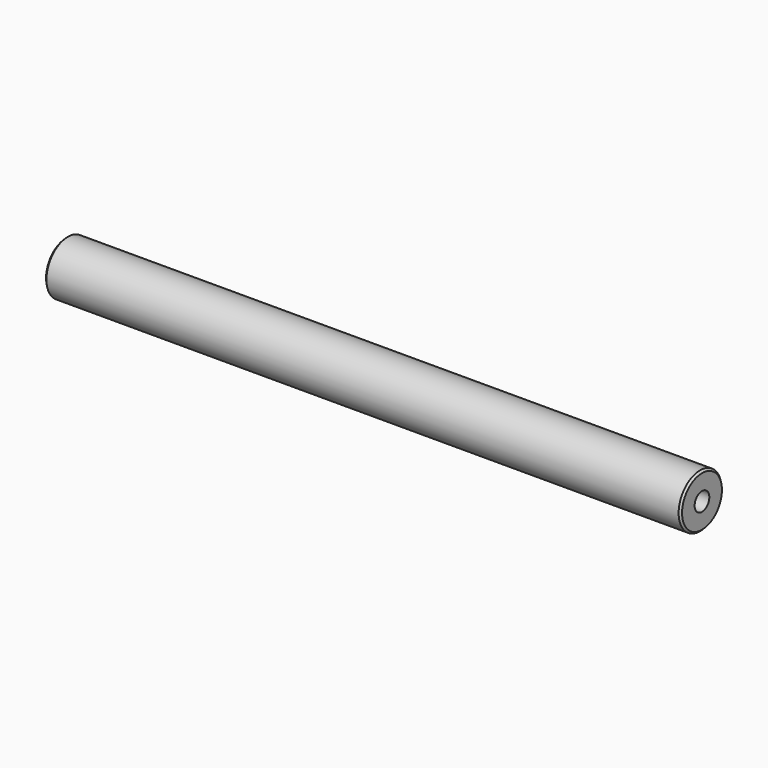
from build123d import *

# Parameters (mm, degrees)
F0_R     = 21.43125
F1_DEPTH = 254
F2_SIZE  = 1.524
F4_D     = 14.68374
F4_DEPTH = 38.1
F4_TIP   = 4.411440553
F6_W     = 7.112
F6_H     = 3.048
F7_DEPTH = 42.8635


with BuildPart() as f1:
    # F0 (on Right) → F1 (new body, symmetric)
    with BuildSketch(Plane.YZ):
        Circle(F0_R)
    extrude(amount=F1_DEPTH, both=True)

    # F2
    f2_edges = [f1.edges().sort_by_distance(p)[0] for p in [
        (254, -21.43125, 0),
        (-254, -21.43125, 0),
    ]]
    chamfer(f2_edges, length=F2_SIZE)

    # F4
    with Locations(Plane.YZ.offset(254)):
        with Locations((0, 0)):
            Hole(F4_D / 2, depth=F4_DEPTH)
            with Locations((0, 0, -(F4_DEPTH + F4_TIP / 2))):  # 118° drill point
                Cone(0, F4_D / 2, F4_TIP, mode=Mode.SUBTRACT)

    # F6 (on offset) → F7 (cut, through all)
    with BuildSketch(Plane.XZ.offset(21.43125)):
        with Locations((244.856, -19.90725)):
            Rectangle(F6_W, F6_H)
    extrude(amount=-F7_DEPTH, mode=Mode.SUBTRACT)


solid = f1.part
